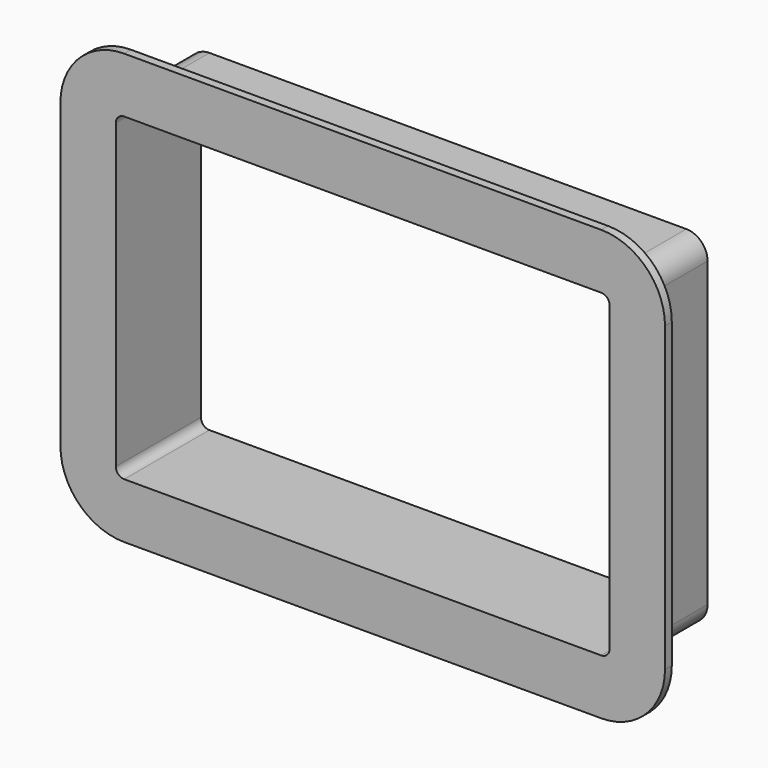
from build123d import *

# Parameters (mm, degrees)
F1_DEPTH = 2
F3_DEPTH = 25


with BuildPart() as f1:
    # F0 (on Front) → F1 (new body)
    with BuildSketch(Plane.XZ):
        with BuildLine():
            Line((117, 91), (5, 91))
            ThreePointArc((5, 91), (-5.6066017178, 86.6066017178), (-10, 76))
            Line((-10, 76), (-10, 5))
            ThreePointArc((-10, 5), (-5.6066017178, -5.6066017178), (5, -10))
            Line((5, -10), (117, -10))
            ThreePointArc((117, -10), (127.6066017178, -5.6066017178), (132, 5))
            Line((132, 5), (132, 76))
            ThreePointArc((132, 76), (127.6066017178, 86.6066017178), (117, 91))
        make_face()
        with BuildLine():
            Line((117, 0), (5, 0))
            ThreePointArc((5, 0), (1.4644660941, 1.4644660941), (0, 5))
            Line((0, 5), (0, 76))
            ThreePointArc((0, 76), (1.4644660941, 79.5355339059), (5, 81))
            Line((5, 81), (117, 81))
            ThreePointArc((117, 81), (120.5355339059, 79.5355339059), (122, 76))
            Line((122, 76), (122, 5))
            ThreePointArc((122, 5), (120.5355339059, 1.4644660941), (117, 0))
        make_face(mode=Mode.SUBTRACT)
    extrude(amount=F1_DEPTH)

    # F2 (on face) → F3 (join)
    with BuildSketch(Plane.XZ.offset(2)):
        with BuildLine():
            Line((117, 81), (5, 81))
            ThreePointArc((5, 81), (1.4644660941, 79.5355339059), (0, 76))
            Line((0, 76), (0, 5))
            ThreePointArc((0, 5), (1.4644660941, 1.4644660941), (5, 0))
            Line((5, 0), (117, 0))
            ThreePointArc((117, 0), (120.5355339059, 1.4644660941), (122, 5))
            Line((122, 5), (122, 76))
            ThreePointArc((122, 76), (120.5355339059, 79.5355339059), (117, 81))
        make_face()
        with BuildLine():
            ThreePointArc((3, 76), (3.5857864376, 77.4142135624), (5, 78))
            Line((5, 78), (117, 78))
            ThreePointArc((117, 78), (118.4142135624, 77.4142135624), (119, 76))
            Line((119, 76), (119, 5))
            ThreePointArc((119, 5), (118.4142135624, 3.5857864376), (117, 3))
            Line((117, 3), (5, 3))
            ThreePointArc((5, 3), (3.5857864376, 3.5857864376), (3, 5))
            Line((3, 5), (3, 76))
        make_face(mode=Mode.SUBTRACT)
    extrude(amount=-F3_DEPTH)


solid = f1.part
